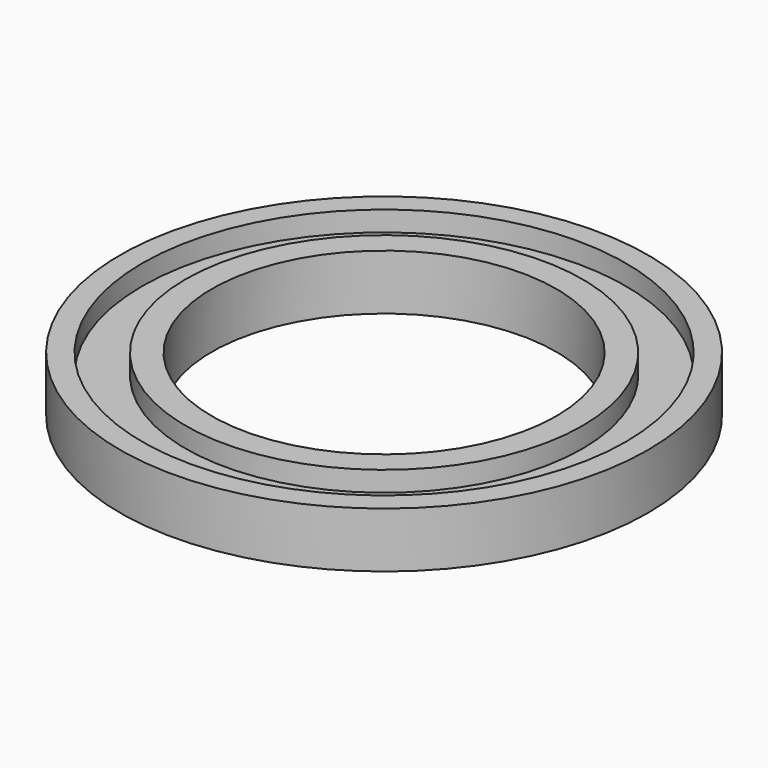
from build123d import *

# Parameters (mm, degrees)
SKETCH_R      = 26.2
SKETCH_R_2    = 17.1
PAD_DEPTH     = 5.5
SKETCH001_R   = 24
SKETCH001_R_2 = 19.7
POCKET_DEPTH  = 2


with BuildPart() as part:
    # Sketch → Pad (new body)
    with BuildSketch(Plane.XY):
        Circle(SKETCH_R)
        Circle(SKETCH_R_2, mode=Mode.SUBTRACT)
    extrude(amount=PAD_DEPTH)

    # Sketch001 → Pocket (cut)
    with BuildSketch(Plane.XY.offset(5.5)):
        Circle(SKETCH001_R)
        Circle(SKETCH001_R_2, mode=Mode.SUBTRACT)
    extrude(amount=-POCKET_DEPTH, mode=Mode.SUBTRACT)


solid = part.part
